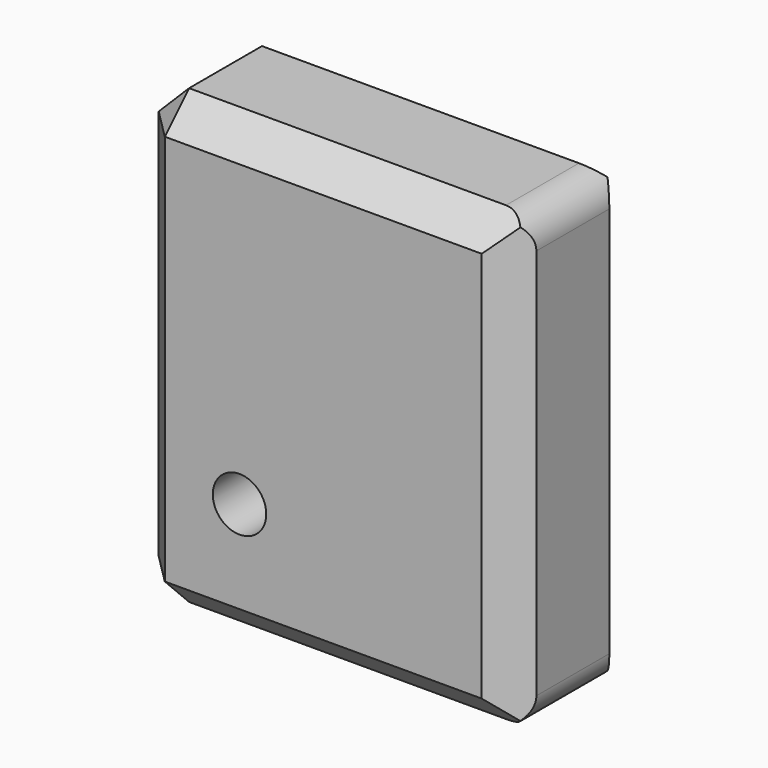
from build123d import *

# Parameters (mm, degrees)
F0_W     = 62.165049836
F0_H     = 74.4500532746
F1_DEPTH = 25
F2_SIZE  = 5
F4_D     = 8.8
F5_R     = 5
F6_R     = 5


with BuildPart() as f1:
    # F0 (on Front) → F1 (new body)
    with BuildSketch(Plane.XZ):
        with Locations((3.1384425238, -1.9241571426)):
            Rectangle(F0_W, F0_H)
        with Locations((3.1384425238, -1.9241571426)):
            Rectangle(F0_W, F0_H)
    extrude(amount=F1_DEPTH)

    # F2
    f2_edges = [f1.edges().sort_by_distance(p)[0] for p in [
        (-27.944082, 0, -1.924157),
        (3.138443, -25, 35.300869),
        (-27.944082, -25, -1.924157),
        (3.138443, -25, -39.149184),
        (34.220967, -25, -1.924157),
        (-27.944082, -12.5, 35.300869),
        (-27.944082, -12.5, -39.149184),
        (3.138443, 0, -39.149184),
        (34.220967, 0, -1.924157),
        (3.138443, 0, 35.300869),
    ]]
    chamfer(f2_edges, length=F2_SIZE)

    # F4 (through all)
    with Locations(Plane(origin=(0, 0, 0), x_dir=(-1, 0, 0), z_dir=(0, 1, 0))):
        with Locations((10.6416083872, -18.9576819539)):
            Hole(F4_D / 2)

    # F5
    f5_edges = [f1.edges().sort_by_distance(p)[0] for p in [
        (34.220967, -12.5, -39.149184),
    ]]
    fillet(f5_edges, radius=F5_R)

    # F6
    f6_edges = [f1.edges().sort_by_distance(p)[0] for p in [
        (34.220967, -12.5, 35.300869),
    ]]
    fillet(f6_edges, radius=F6_R)


solid = f1.part
